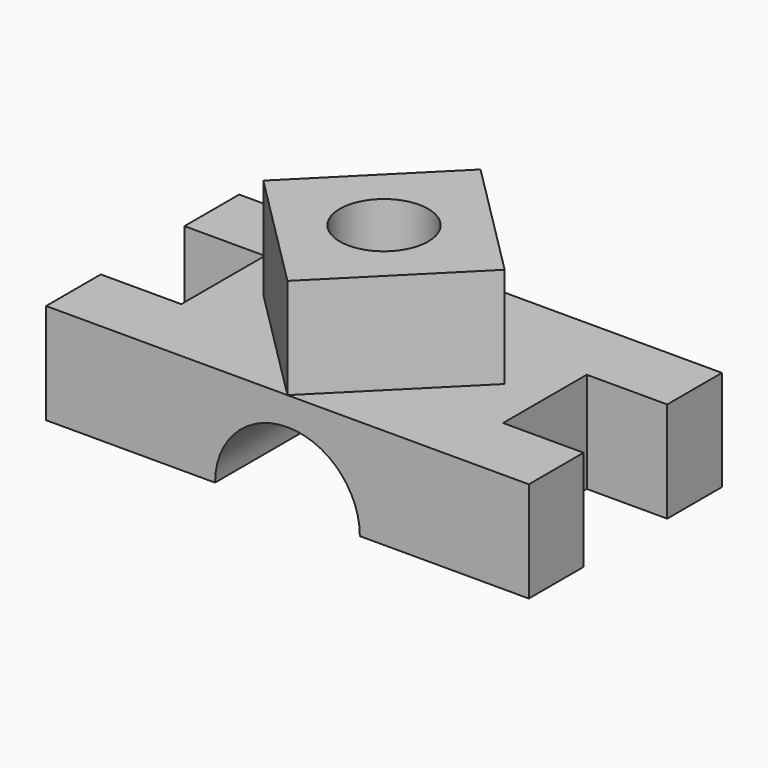
from build123d import *

# Parameters (mm, degrees)
F1_DEPTH  = 600
F2_W      = 400
F2_H      = 260
F3_DEPTH  = 250.001
F4_DEPTH  = 250.001
F5_W      = 400
F5_H      = 260
F6_DEPTH  = 250.001
F8_DEPTH  = 250
F10_DEPTH = 250
F11_R     = 110
F12_DEPTH = 500.001


with BuildPart() as f1:
    # F0 (on Front) → F1 (new body)
    with BuildSketch(Plane.XZ):
        with BuildLine():
            Line((300, 250), (-300, 250))
            Line((-300, 250), (-300, 0))
            Line((-300, 0), (-600, 0))
            Line((-600, 0), (-600, -250))
            Line((-600, -250), (-180, -250))
            ThreePointArc((-180, -250), (0, -70), (180, -250))
            Line((180, -250), (600, -250))
            Line((600, -250), (600, 0))
            Line((600, 0), (300, 0))
            Line((300, 0), (300, 250))
        make_face()
    extrude(amount=F1_DEPTH)

    # F2 (on face) → F3 (cut, through all)
    with BuildSketch(Plane.XY):
        with Locations((600, -300)):
            Rectangle(F2_W, F2_H)
    extrude(amount=F3_DEPTH, mode=Mode.SUBTRACT)

    # F2 (on face) → F4 (cut, through all)
    with BuildSketch(Plane.XY):
        with Locations((600, -300)):
            Rectangle(F2_W, F2_H)
    extrude(amount=-F4_DEPTH, mode=Mode.SUBTRACT)

    # F5 (on face) → F6 (cut, through all)
    with BuildSketch(Plane.XY):
        with Locations((-600, -300)):
            Rectangle(F5_W, F5_H)
    extrude(amount=-F6_DEPTH, mode=Mode.SUBTRACT)

    # F7 (on face) → F8 (cut)
    with BuildSketch(Plane.XY.offset(250)):
        Polygon((300, -300), (0, -600), (300, -600), align=None)
        Polygon((0, -600), (-300, -300), (-300, -600), align=None)
        Polygon((-300, -300), (0, 0), (-300, 0), align=None)
    extrude(amount=-F8_DEPTH, mode=Mode.SUBTRACT)

    # F9 (on face) → F10 (cut)
    with BuildSketch(Plane.XY.offset(250)):
        Polygon((300, 0), (0, 0), (300, -300), align=None)
    extrude(amount=-F10_DEPTH, mode=Mode.SUBTRACT)

    # F11 (on face) → F12 (cut, through all)
    with BuildSketch(Plane.XY.offset(250)):
        with Locations((0, -300)):
            Circle(F11_R)
    extrude(amount=-F12_DEPTH, mode=Mode.SUBTRACT)


solid = f1.part
